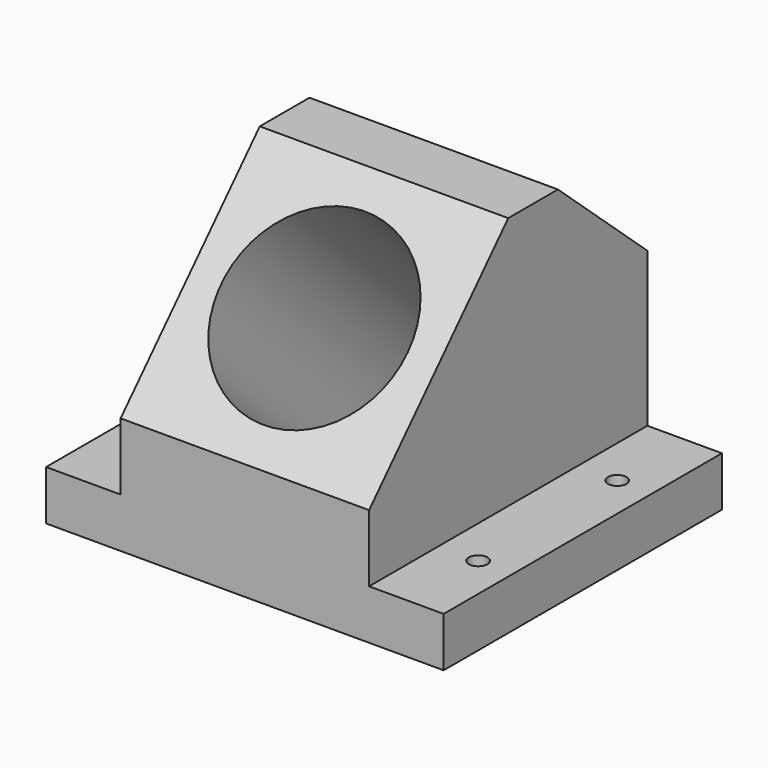
from build123d import *

# Parameters (mm, degrees)
F0_W     = 280
F0_H     = 40
F1_DEPTH = 160
F2_DEPTH = 100
F3_R     = 7.5
F4_DEPTH = 50
F5_R     = 75
F6_DEPTH = 421.5


with BuildPart() as f1:
    # F0 (on Right) → F1 (new body, symmetric)
    with BuildSketch(Plane.YZ):
        with Locations((0, -12.4763777256)):
            Rectangle(F0_W, F0_H)
    extrude(amount=F1_DEPTH, both=True)

    # F0 (on Right) → F2 (join, symmetric)
    with BuildSketch(Plane.YZ):
        Polygon((-140, 61.5236222744), (-140, 7.5236222744), (140, 7.5236222744), (140, 131.5236222744), (50, 211.5236222744), (0, 211.5236222744), align=None)
    extrude(amount=F2_DEPTH, both=True)

    # F3 (on face) → F4 (cut)
    with BuildSketch(Plane.XY.offset(7.5236222744)):
        with Locations((-131.7980587482, 70)):
            Circle(F3_R)
        with Locations((-131.7980587482, -70)):
            Circle(F3_R)
        with Locations((131.7980587482, 70)):
            Circle(F3_R)
        with Locations((131.7980587482, -70)):
            Circle(F3_R)
    extrude(amount=-F4_DEPTH, mode=Mode.SUBTRACT)

    # F5 (on face) → F6 (cut)
    with BuildSketch(Plane(origin=(0, -105.5105954338, 98.4765557382), x_dir=(1, 0, 0), z_dir=(0, -0.7310552682, 0.6823182504))):
        with Locations((0, 52.0439584215)):
            Circle(F5_R)
    extrude(amount=-F6_DEPTH, mode=Mode.SUBTRACT)


solid = f1.part
